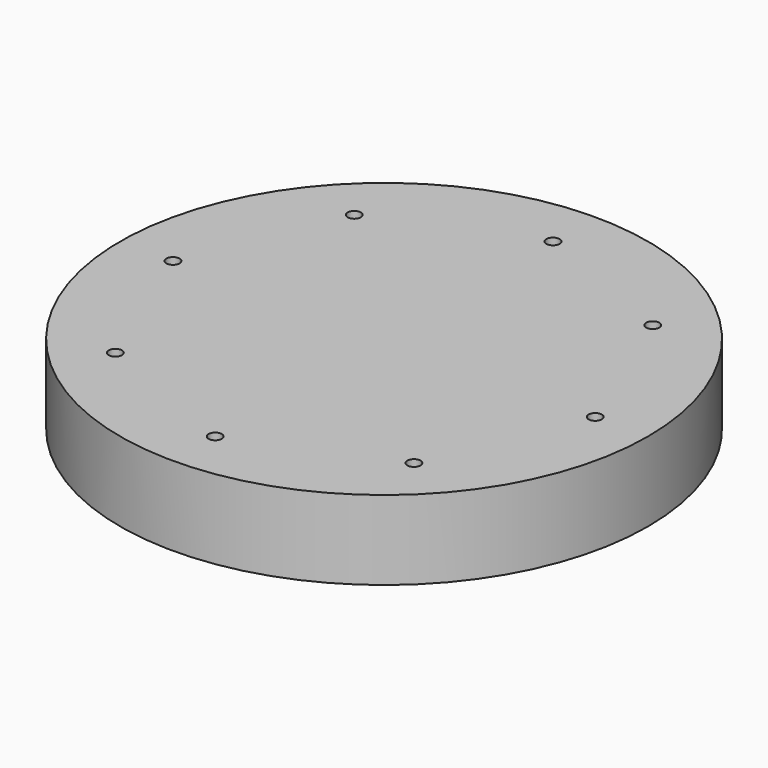
from build123d import *

# Parameters (mm, degrees)
F0_R     = 63.453437
F0_R_2   = 1.586336
F1_DEPTH = 19.05


with BuildPart() as f1:
    # F0 (on Top) → F1 (new body)
    with BuildSketch(Plane.XY):
        with Locations((76.21336, 77.152969)):
            Circle(F0_R)
        with Locations((40.325263, 41.264868)):
            Circle(F0_R_2, mode=Mode.SUBTRACT)
        with Locations((76.21336, 26.399533)):
            Circle(F0_R_2, mode=Mode.SUBTRACT)
        with Locations((25.459923, 77.152967)):
            Circle(F0_R_2, mode=Mode.SUBTRACT)
        with Locations((112.101459, 41.26487)):
            Circle(F0_R_2, mode=Mode.SUBTRACT)
        with Locations((126.966796, 77.152967)):
            Circle(F0_R_2, mode=Mode.SUBTRACT)
        with Locations((40.325261, 113.041068)):
            Circle(F0_R_2, mode=Mode.SUBTRACT)
        with Locations((76.21336, 127.906406)):
            Circle(F0_R_2, mode=Mode.SUBTRACT)
        with Locations((112.101461, 113.041067)):
            Circle(F0_R_2, mode=Mode.SUBTRACT)
    extrude(amount=F1_DEPTH)


solid = f1.part
